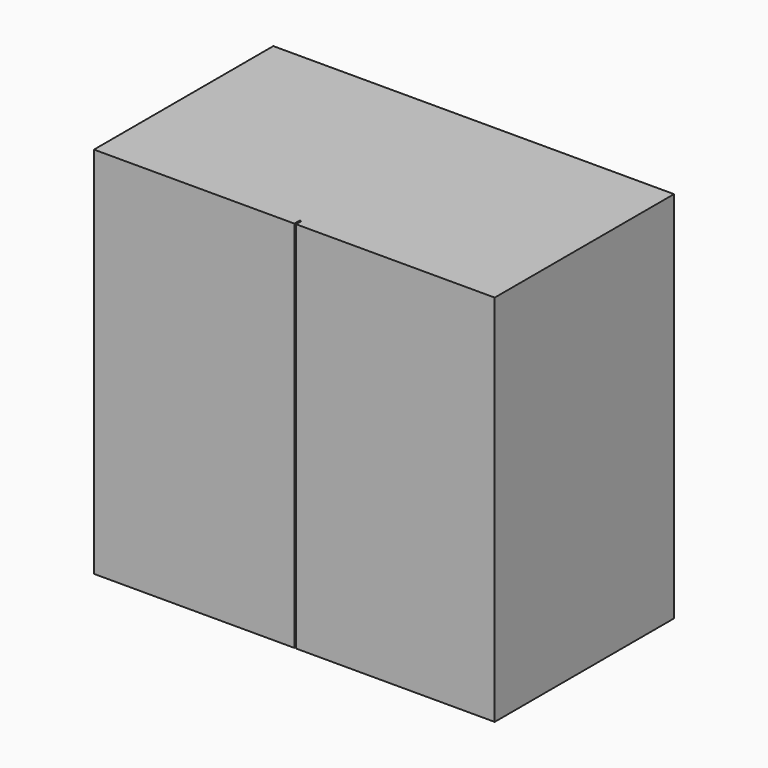
from build123d import *

# Parameters (mm, degrees)
F0_W     = 746.76
F0_H     = 838.2
F0_W_2   = 5.08
F1_DEPTH = 1397
F2_W     = 6.35
F2_H     = 1397
F3_DEPTH = 25.4


with BuildPart() as f1:
    # F0 (on Top) → F1 (new body)
    with BuildSketch(Plane.XY):
        with Locations((375.92, 0)):
            Rectangle(F0_W, F0_H)
        with Locations((-375.92, 0)):
            Rectangle(F0_W, F0_H)
        Rectangle(F0_W_2, F0_H)
    extrude(amount=F1_DEPTH)

    # F2 (on face) → F3 (cut)
    with BuildSketch(Plane.XZ.offset(419.1)):
        with Locations((3.175, 698.5)):
            Rectangle(F2_W, F2_H)
    extrude(amount=-F3_DEPTH, mode=Mode.SUBTRACT)


solid = f1.part
